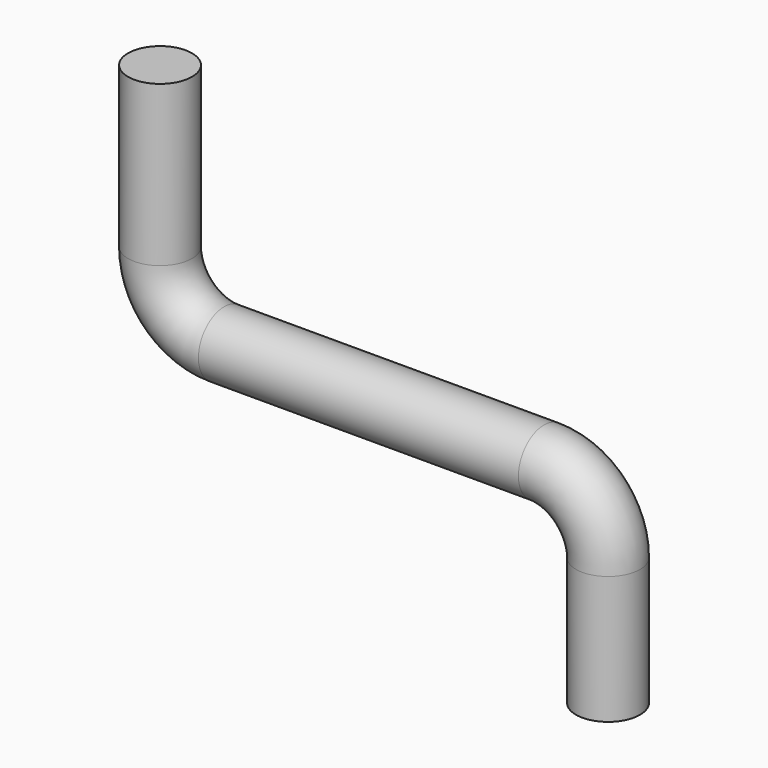
from build123d import *

# Parameters (mm, degrees)
F1_R = 0.5


with BuildPart() as f2:
    # F2: sweep along a path in F0
    with BuildLine(Plane.XZ) as f2_path:
        Line((0, 0), (0, -2.5))
        ThreePointArc((0, -2.5), (0.2928932188, -3.2071067812), (1, -3.5))
        Line((1, -3.5), (6, -3.5))
        ThreePointArc((6, -3.5), (6.7071067812, -3.7928932188), (7, -4.5))
        Line((7, -4.5), (7, -6.5))
    # F1 (on Top) → F2 (sweep)
    with BuildSketch(Plane.XY):
        Circle(F1_R)
    sweep(path=f2_path.line)


solid = f2.part
